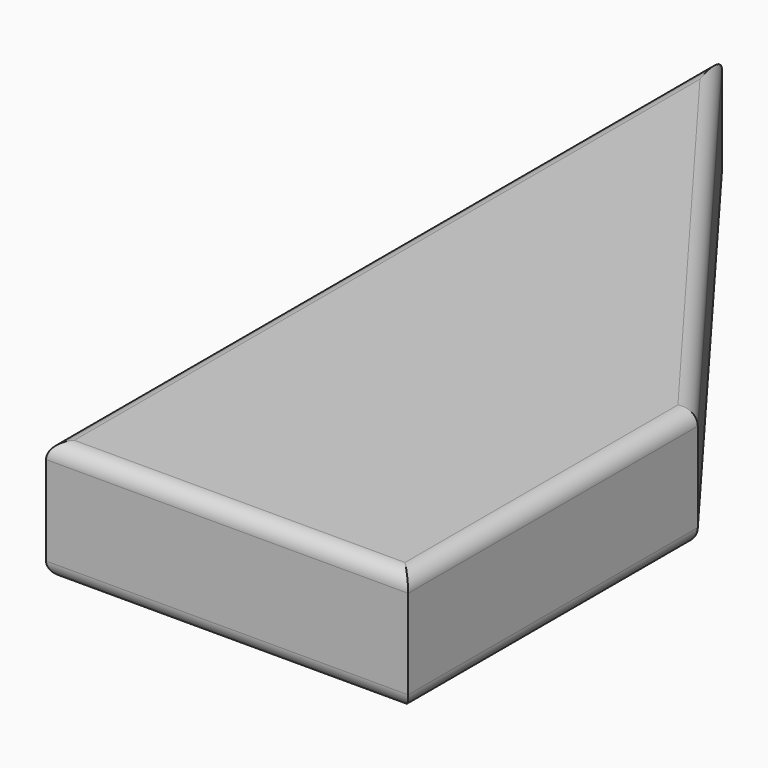
from build123d import *

# Parameters (mm, degrees)
F0_W     = 30
F0_H     = 30
F1_DEPTH = 10
F2_R     = 1.3


with BuildPart() as f1:
    # F0 (on Top) → F1 (new body)
    with BuildSketch(Plane.XY):
        Polygon((-37.147787, 33.758201), (-37.147787, -6.241799), (-7.147787, -6.241799), align=None)
        with Locations((-22.147787, -21.241799)):
            Rectangle(F0_W, F0_H)
    extrude(amount=F1_DEPTH)

    # F2
    f2_edges = [f1.edges().sort_by_distance(p)[0] for p in [
        (-37.147787, -1.241799, 10),
        (-22.147787, 13.758201, 10),
        (-7.147787, -21.241799, 10),
        (-22.147787, -36.241799, 10),
        (-37.147787, -1.241799, 0),
        (-22.147787, 13.758201, 0),
        (-7.147787, -21.241799, 0),
        (-22.147787, -36.241799, 0),
    ]]
    fillet(f2_edges, radius=F2_R)


solid = f1.part
